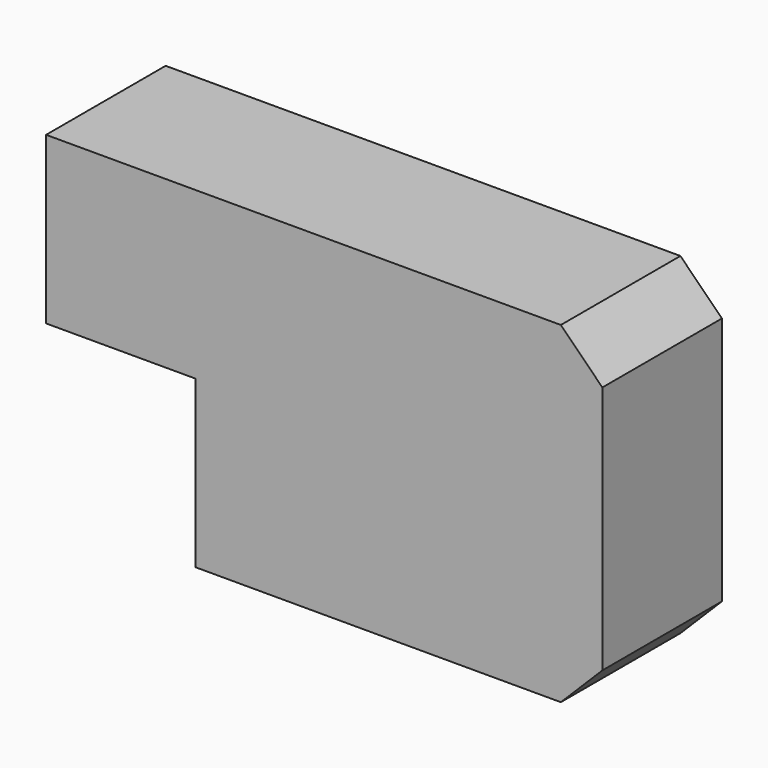
from build123d import *

# Parameters (mm, degrees)
F1_DEPTH = 18
F2_SIZE  = 5


with BuildPart() as f1:
    # F0 (on Front) → F1 (new body)
    with BuildSketch(Plane.XZ):
        Polygon((18, 20), (18, 0), (67, 0), (67, 40), (0, 40), (0, 20), align=None)
    extrude(amount=F1_DEPTH)

    # F2
    f2_edges = [f1.edges().sort_by_distance(p)[0] for p in [
        (67, -9, 40),
        (67, -9, 0),
    ]]
    chamfer(f2_edges, length=F2_SIZE)


solid = f1.part
